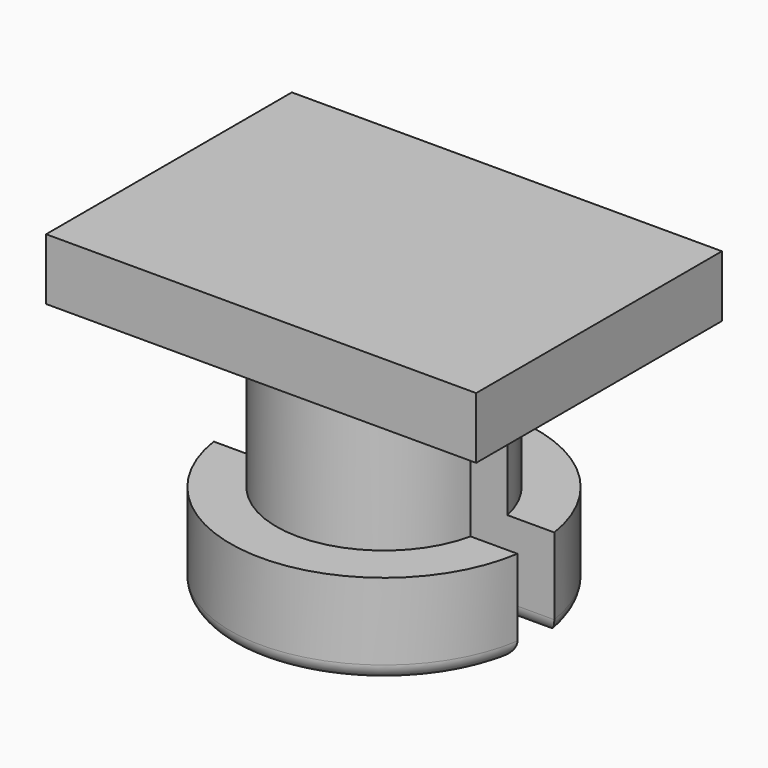
from build123d import *

# Parameters (mm, degrees)
SKETCH087_W     = 14
SKETCH087_H     = 10
PAD045_DEPTH    = 2
SKETCH088_R     = 3.5
PAD046_DEPTH    = 5
SKETCH089_R     = 5
PAD047_DEPTH    = 3
POCKET037_DEPTH = 14
FILLET007_R     = 0.5


with BuildPart() as part:
    # Sketch087 → Pad045 (new body)
    with BuildSketch(Plane.XY):
        Rectangle(SKETCH087_W, SKETCH087_H)
    extrude(amount=PAD045_DEPTH)

    # Sketch088 (on Face5 of Pad045) → Pad046 (join)
    with BuildSketch(Plane(origin=(0, 0, 0), x_dir=(1, 0, 0), z_dir=(0, 0, -1))):
        Circle(SKETCH088_R)
    extrude(amount=PAD046_DEPTH)

    # Sketch089 (on Face8 of Pad046) → Pad047 (join)
    with BuildSketch(Plane(origin=(0, 0, -5), x_dir=(1, 0, 0), z_dir=(0, 0, -1))):
        Circle(SKETCH089_R)
    extrude(amount=PAD047_DEPTH)

    # Sketch090 (on Face1 of Pad047) → Pocket037 (cut)
    with BuildSketch(Plane(origin=(-7, 0, 0), x_dir=(0, -1, 0), z_dir=(-1, 0, 0))):
        Polygon((-0.75, -2), (-0.75, -8), (0.75, -8), (0.75, -2), (0, -1.474844), align=None)
    extrude(amount=-POCKET037_DEPTH, mode=Mode.SUBTRACT)

    # Fillet007
    fillet007_edges = [part.edges().sort_by_distance(p)[0] for p in [
        (0, -5, -8),
        (0, -0.75, -8),
        (0, 0.75, -8),
        (0, 5, -8),
    ]]
    fillet(fillet007_edges, radius=FILLET007_R)


solid = part.part
